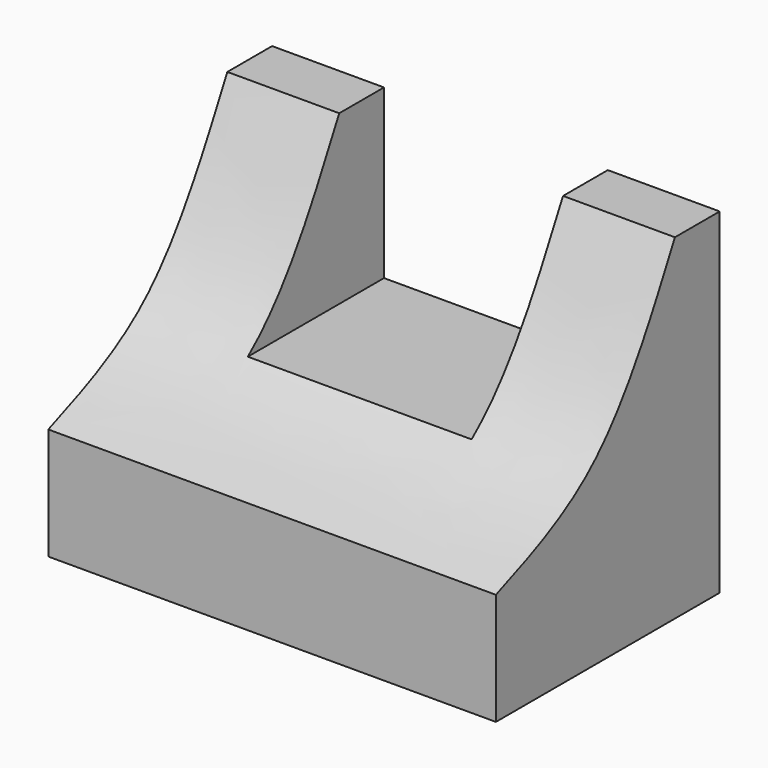
from build123d import *

# Parameters (mm, degrees)
F1_DEPTH = 50.8
F2_W     = 25.4
F2_H     = 19.05
F3_DEPTH = 25.4


with BuildPart() as f1:
    # F0 (on Right) → F1 (new body)
    with BuildSketch(Plane.YZ):
        with BuildLine():
            Line((0, 12.7), (0, 0))
            Line((0, 0), (31.75, 0))
            Line((31.75, 0), (31.75, 38.1))
            Line((31.75, 38.1), (25.4, 38.1))
            add(Edge.make_bspline(
                [(0, 12.7), (4.9048450829, 14.6131088522), (15.5114015393, 18.7501400336), (21.9427392474, 31.3348844282), (25.4, 38.1)],
                knots=[0, 0, 0, 0, 0.4624352025, 1, 1, 1, 1], degree=3))
        make_face()
    extrude(amount=F1_DEPTH)

    # F2 (on face) → F3 (cut)
    with BuildSketch(Plane(origin=(0, 31.75, 0), x_dir=(-1, 0, 0), z_dir=(0, 1, 0))):
        with Locations((-25.4, 28.575)):
            Rectangle(F2_W, F2_H)
    extrude(amount=-F3_DEPTH, mode=Mode.SUBTRACT)


solid = f1.part
